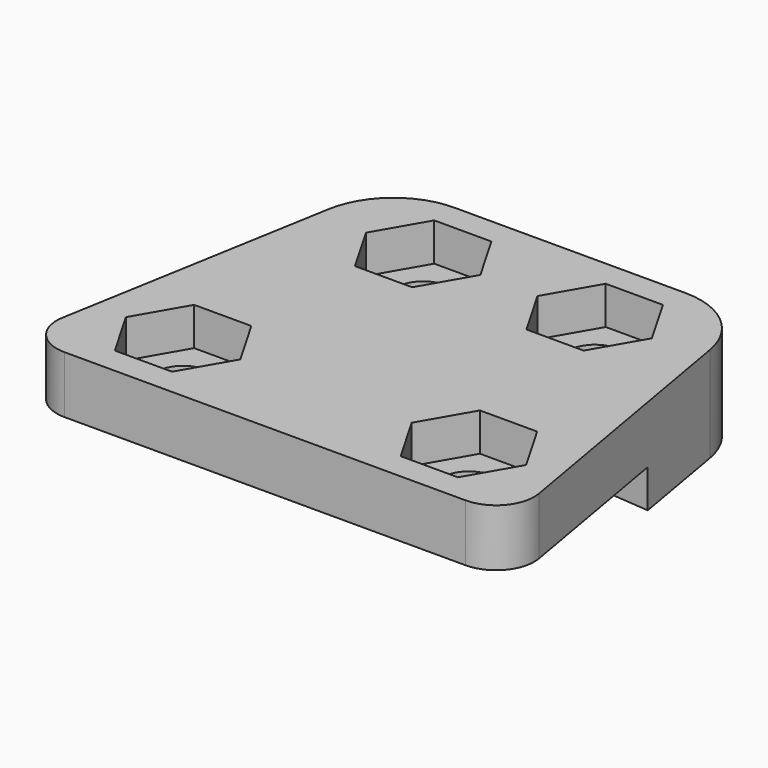
from build123d import *

# Parameters (mm, degrees)
PAD001_DEPTH         = 5
SKETCH007_R          = 1.4
POCKET001_DEPTH      = 5.001
POCKET001_DEPTH_BACK = 0.001
POCKET002_DEPTH      = 2
SKETCH009_R          = 112.8
POCKET003_DEPTH      = 2.001


with BuildPart() as part:
    # Sketch005 → Pad001 (new body)
    with BuildSketch(Plane.XY):
        with BuildLine():
            Line((-10.529704, 0), (10.529704, 0))
            ThreePointArc((10.529704, 0), (12.060526, 0.712916), (12.5, 2.343415))
            Line((10, 16.686829), (12.5, 2.343415))
            ThreePointArc((10, 16.686829), (8.633576, 19.061643), (6.059408, 20))
            Line((-6.059408, 20), (6.059408, 20))
            ThreePointArc((-6.059408, 20), (-8.633576, 19.061643), (-10, 16.686829))
            Line((-12.5, 2.343415), (-10, 16.686829))
            ThreePointArc((-12.5, 2.343415), (-12.060526, 0.712916), (-10.529704, 0))
        make_face()
    extrude(amount=-PAD001_DEPTH)

    # Sketch007 → Pocket001 (cut, two sides)
    with BuildSketch(Plane.XY) as pocket001_sk:
        with Locations((-4.5, 16)):
            Circle(SKETCH007_R)
        with Locations((4.5, 16)):
            Circle(SKETCH007_R)
        with Locations((7.5, 4)):
            Circle(SKETCH007_R)
        with Locations((-7.5, 4)):
            Circle(SKETCH007_R)
    extrude(amount=-POCKET001_DEPTH, mode=Mode.SUBTRACT)
    extrude(pocket001_sk.sketch, amount=POCKET001_DEPTH_BACK, mode=Mode.SUBTRACT)

    # Sketch008 → Pocket002 (cut)
    with BuildSketch(Plane.XY):
        Polygon((-9.001111, 6.6), (-10.502221, 4), (-9.001111, 1.4), (-5.998889, 1.4), (-4.497779, 4), (-5.998889, 6.6), align=None)
        Polygon((9.001111, 1.4), (10.502221, 4), (9.001111, 6.6), (5.998889, 6.6), (4.497779, 4), (5.998889, 1.4), align=None)
        Polygon((6.001111, 13.4), (7.502221, 16), (6.001111, 18.6), (2.998889, 18.6), (1.497779, 16), (2.998889, 13.4), align=None)
        Polygon((-6.001111, 13.4), (-2.998889, 13.4), (-1.497779, 16), (-2.998889, 18.6), (-6.001111, 18.6), (-7.502221, 16), align=None)
    extrude(amount=-POCKET002_DEPTH, mode=Mode.SUBTRACT)

    # Sketch009 (on DatumPlane) → Pocket003 (cut, through all)
    with BuildSketch(Plane.XY.offset(-3)):
        with Locations((0, -100.8)):
            Circle(SKETCH009_R)
    extrude(amount=-POCKET003_DEPTH, mode=Mode.SUBTRACT)


solid = part.part
